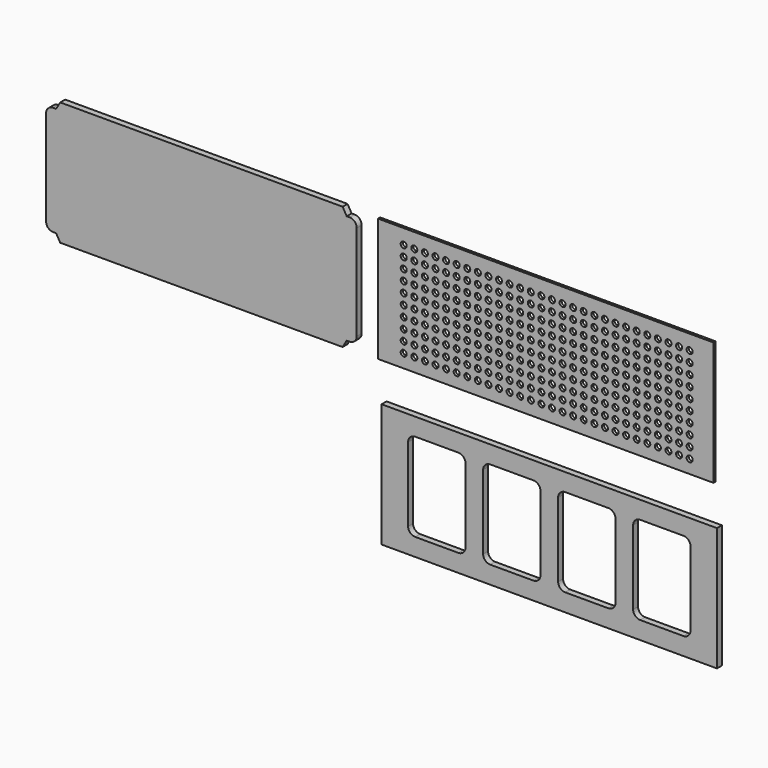
from build123d import *

# Parameters (mm, degrees)
F1_DEPTH = 3.5
F3_W     = 190
F3_H     = 70
F4_DEPTH = 1.5
F5_R     = 1.7095
F6_DEPTH = 25
F7_W     = 190
F7_H     = 70
F8_DEPTH = 3.5


with BuildPart() as f1:
    # F0 (on Front) → F1 (new body)
    with BuildSketch(Plane.XZ):
        with BuildLine():
            Line((-6.106985, 33), (-6.106985, -37))
            Line((-6.106985, -37), (73.893015, -37))
            Line((73.893015, -37), (76.202416, -33))
            Line((76.202416, -33), (77.893015, -33))
            ThreePointArc((77.893015, -33), (80.721442, -31.828427), (81.893015, -29))
            Line((81.893015, -29), (81.893015, 25))
            ThreePointArc((81.893015, 25), (80.721442, 27.828427), (77.893015, 29))
            Line((77.893015, 29), (76.202416, 29))
            Line((76.202416, 29), (73.893015, 33))
            Line((73.893015, 33), (-6.106985, 33))
        make_face()
    extrude(amount=F1_DEPTH)

    # F2: F1 across face


with BuildPart() as f1_1:
    add(f1.part)
    add(f1.part.mirror(Plane(origin=(-6.106985, -1.75, -2), x_dir=(0, -1, 0), z_dir=(-1, 0, 0))))


with BuildPart() as f4:
    # F3 (on Front) → F4 (new body)
    with BuildSketch(Plane.XZ):
        with Locations((187.389514, -2.739854)):
            Rectangle(F3_W, F3_H)
    extrude(amount=F4_DEPTH)

    # F5 (on face) → F6 (cut)
    with BuildSketch(Plane.XZ.offset(1.5)):
        with Locations((106.91639, 23.84547)):
            Circle(F5_R)
        with Locations((106.91639, 17.84547)):
            Circle(F5_R)
        with Locations((106.91639, 11.84547)):
            Circle(F5_R)
        with Locations((106.91639, 5.84547)):
            Circle(F5_R)
        with Locations((106.91639, -0.15453)):
            Circle(F5_R)
        with Locations((106.91639, -6.15453)):
            Circle(F5_R)
        with Locations((106.91639, -12.15453)):
            Circle(F5_R)
        with Locations((106.91639, -18.15453)):
            Circle(F5_R)
        with Locations((106.91639, -24.15453)):
            Circle(F5_R)
        with Locations((106.91639, -30.15453)):
            Circle(F5_R)
        with Locations((112.91639, 23.84547)):
            Circle(F5_R)
        with Locations((112.91639, 17.84547)):
            Circle(F5_R)
        with Locations((112.91639, 11.84547)):
            Circle(F5_R)
        with Locations((112.91639, 5.84547)):
            Circle(F5_R)
        with Locations((112.91639, -0.15453)):
            Circle(F5_R)
        with Locations((112.91639, -6.15453)):
            Circle(F5_R)
        with Locations((112.91639, -12.15453)):
            Circle(F5_R)
        with Locations((112.91639, -18.15453)):
            Circle(F5_R)
        with Locations((112.91639, -24.15453)):
            Circle(F5_R)
        with Locations((112.91639, -30.15453)):
            Circle(F5_R)
        with Locations((118.91639, 23.84547)):
            Circle(F5_R)
        with Locations((118.91639, 17.84547)):
            Circle(F5_R)
        with Locations((118.91639, 11.84547)):
            Circle(F5_R)
        with Locations((118.91639, 5.84547)):
            Circle(F5_R)
        with Locations((118.91639, -0.15453)):
            Circle(F5_R)
        with Locations((118.91639, -6.15453)):
            Circle(F5_R)
        with Locations((118.91639, -12.15453)):
            Circle(F5_R)
        with Locations((118.91639, -18.15453)):
            Circle(F5_R)
        with Locations((118.91639, -24.15453)):
            Circle(F5_R)
        with Locations((118.91639, -30.15453)):
            Circle(F5_R)
        with Locations((124.91639, 23.84547)):
            Circle(F5_R)
        with Locations((124.91639, 17.84547)):
            Circle(F5_R)
        with Locations((124.91639, 11.84547)):
            Circle(F5_R)
        with Locations((124.91639, 5.84547)):
            Circle(F5_R)
        with Locations((124.91639, -0.15453)):
            Circle(F5_R)
        with Locations((124.91639, -6.15453)):
            Circle(F5_R)
        with Locations((124.91639, -12.15453)):
            Circle(F5_R)
        with Locations((124.91639, -18.15453)):
            Circle(F5_R)
        with Locations((124.91639, -24.15453)):
            Circle(F5_R)
        with Locations((124.91639, -30.15453)):
            Circle(F5_R)
        with Locations((130.91639, 23.84547)):
            Circle(F5_R)
        with Locations((130.91639, 17.84547)):
            Circle(F5_R)
        with Locations((130.91639, 11.84547)):
            Circle(F5_R)
        with Locations((130.91639, 5.84547)):
            Circle(F5_R)
        with Locations((130.91639, -0.15453)):
            Circle(F5_R)
        with Locations((130.91639, -6.15453)):
            Circle(F5_R)
        with Locations((130.91639, -12.15453)):
            Circle(F5_R)
        with Locations((130.91639, -18.15453)):
            Circle(F5_R)
        with Locations((130.91639, -24.15453)):
            Circle(F5_R)
        with Locations((130.91639, -30.15453)):
            Circle(F5_R)
        with Locations((136.91639, 23.84547)):
            Circle(F5_R)
        with Locations((136.91639, 17.84547)):
            Circle(F5_R)
        with Locations((136.91639, 11.84547)):
            Circle(F5_R)
        with Locations((136.91639, 5.84547)):
            Circle(F5_R)
        with Locations((136.91639, -0.15453)):
            Circle(F5_R)
        with Locations((136.91639, -6.15453)):
            Circle(F5_R)
        with Locations((136.91639, -12.15453)):
            Circle(F5_R)
        with Locations((136.91639, -18.15453)):
            Circle(F5_R)
        with Locations((136.91639, -24.15453)):
            Circle(F5_R)
        with Locations((136.91639, -30.15453)):
            Circle(F5_R)
        with Locations((142.91639, 23.84547)):
            Circle(F5_R)
        with Locations((142.91639, 17.84547)):
            Circle(F5_R)
        with Locations((142.91639, 11.84547)):
            Circle(F5_R)
        with Locations((142.91639, 5.84547)):
            Circle(F5_R)
        with Locations((142.91639, -0.15453)):
            Circle(F5_R)
        with Locations((142.91639, -6.15453)):
            Circle(F5_R)
        with Locations((142.91639, -12.15453)):
            Circle(F5_R)
        with Locations((142.91639, -18.15453)):
            Circle(F5_R)
        with Locations((142.91639, -24.15453)):
            Circle(F5_R)
        with Locations((142.91639, -30.15453)):
            Circle(F5_R)
        with Locations((148.91639, 23.84547)):
            Circle(F5_R)
        with Locations((148.91639, 17.84547)):
            Circle(F5_R)
        with Locations((148.91639, 11.84547)):
            Circle(F5_R)
        with Locations((148.91639, 5.84547)):
            Circle(F5_R)
        with Locations((148.91639, -0.15453)):
            Circle(F5_R)
        with Locations((148.91639, -6.15453)):
            Circle(F5_R)
        with Locations((148.91639, -12.15453)):
            Circle(F5_R)
        with Locations((148.91639, -18.15453)):
            Circle(F5_R)
        with Locations((148.91639, -24.15453)):
            Circle(F5_R)
        with Locations((148.91639, -30.15453)):
            Circle(F5_R)
        with Locations((154.91639, 23.84547)):
            Circle(F5_R)
        with Locations((154.91639, 17.84547)):
            Circle(F5_R)
        with Locations((154.91639, 11.84547)):
            Circle(F5_R)
        with Locations((154.91639, 5.84547)):
            Circle(F5_R)
        with Locations((154.91639, -0.15453)):
            Circle(F5_R)
        with Locations((154.91639, -6.15453)):
            Circle(F5_R)
        with Locations((154.91639, -12.15453)):
            Circle(F5_R)
        with Locations((154.91639, -18.15453)):
            Circle(F5_R)
        with Locations((154.91639, -24.15453)):
            Circle(F5_R)
        with Locations((154.91639, -30.15453)):
            Circle(F5_R)
        with Locations((160.91639, 23.84547)):
            Circle(F5_R)
        with Locations((160.91639, 17.84547)):
            Circle(F5_R)
        with Locations((160.91639, 11.84547)):
            Circle(F5_R)
        with Locations((160.91639, 5.84547)):
            Circle(F5_R)
        with Locations((160.91639, -0.15453)):
            Circle(F5_R)
        with Locations((160.91639, -6.15453)):
            Circle(F5_R)
        with Locations((160.91639, -12.15453)):
            Circle(F5_R)
        with Locations((160.91639, -18.15453)):
            Circle(F5_R)
        with Locations((160.91639, -24.15453)):
            Circle(F5_R)
        with Locations((160.91639, -30.15453)):
            Circle(F5_R)
        with Locations((166.91639, 23.84547)):
            Circle(F5_R)
        with Locations((166.91639, 17.84547)):
            Circle(F5_R)
        with Locations((166.91639, 11.84547)):
            Circle(F5_R)
        with Locations((166.91639, 5.84547)):
            Circle(F5_R)
        with Locations((166.91639, -0.15453)):
            Circle(F5_R)
        with Locations((166.91639, -6.15453)):
            Circle(F5_R)
        with Locations((166.91639, -12.15453)):
            Circle(F5_R)
        with Locations((166.91639, -18.15453)):
            Circle(F5_R)
        with Locations((166.91639, -24.15453)):
            Circle(F5_R)
        with Locations((166.91639, -30.15453)):
            Circle(F5_R)
        with Locations((172.91639, 23.84547)):
            Circle(F5_R)
        with Locations((172.91639, 17.84547)):
            Circle(F5_R)
        with Locations((172.91639, 11.84547)):
            Circle(F5_R)
        with Locations((172.91639, 5.84547)):
            Circle(F5_R)
        with Locations((172.91639, -0.15453)):
            Circle(F5_R)
        with Locations((172.91639, -6.15453)):
            Circle(F5_R)
        with Locations((172.91639, -12.15453)):
            Circle(F5_R)
        with Locations((172.91639, -18.15453)):
            Circle(F5_R)
        with Locations((172.91639, -24.15453)):
            Circle(F5_R)
        with Locations((172.91639, -30.15453)):
            Circle(F5_R)
        with Locations((178.91639, 23.84547)):
            Circle(F5_R)
        with Locations((178.91639, 17.84547)):
            Circle(F5_R)
        with Locations((178.91639, 11.84547)):
            Circle(F5_R)
        with Locations((178.91639, 5.84547)):
            Circle(F5_R)
        with Locations((178.91639, -0.15453)):
            Circle(F5_R)
        with Locations((178.91639, -6.15453)):
            Circle(F5_R)
        with Locations((178.91639, -12.15453)):
            Circle(F5_R)
        with Locations((178.91639, -18.15453)):
            Circle(F5_R)
        with Locations((178.91639, -24.15453)):
            Circle(F5_R)
        with Locations((178.91639, -30.15453)):
            Circle(F5_R)
        with Locations((184.91639, 23.84547)):
            Circle(F5_R)
        with Locations((184.91639, 17.84547)):
            Circle(F5_R)
        with Locations((184.91639, 11.84547)):
            Circle(F5_R)
        with Locations((184.91639, 5.84547)):
            Circle(F5_R)
        with Locations((184.91639, -0.15453)):
            Circle(F5_R)
        with Locations((184.91639, -6.15453)):
            Circle(F5_R)
        with Locations((184.91639, -12.15453)):
            Circle(F5_R)
        with Locations((184.91639, -18.15453)):
            Circle(F5_R)
        with Locations((184.91639, -24.15453)):
            Circle(F5_R)
        with Locations((184.91639, -30.15453)):
            Circle(F5_R)
        with Locations((190.91639, 23.84547)):
            Circle(F5_R)
        with Locations((190.91639, 17.84547)):
            Circle(F5_R)
        with Locations((190.91639, 11.84547)):
            Circle(F5_R)
        with Locations((190.91639, 5.84547)):
            Circle(F5_R)
        with Locations((190.91639, -0.15453)):
            Circle(F5_R)
        with Locations((190.91639, -6.15453)):
            Circle(F5_R)
        with Locations((190.91639, -12.15453)):
            Circle(F5_R)
        with Locations((190.91639, -18.15453)):
            Circle(F5_R)
        with Locations((190.91639, -24.15453)):
            Circle(F5_R)
        with Locations((190.91639, -30.15453)):
            Circle(F5_R)
        with Locations((196.91639, 23.84547)):
            Circle(F5_R)
        with Locations((196.91639, 17.84547)):
            Circle(F5_R)
        with Locations((196.91639, 11.84547)):
            Circle(F5_R)
        with Locations((196.91639, 5.84547)):
            Circle(F5_R)
        with Locations((196.91639, -0.15453)):
            Circle(F5_R)
        with Locations((196.91639, -6.15453)):
            Circle(F5_R)
        with Locations((196.91639, -12.15453)):
            Circle(F5_R)
        with Locations((196.91639, -18.15453)):
            Circle(F5_R)
        with Locations((196.91639, -24.15453)):
            Circle(F5_R)
        with Locations((196.91639, -30.15453)):
            Circle(F5_R)
        with Locations((202.91639, 23.84547)):
            Circle(F5_R)
        with Locations((202.91639, 17.84547)):
            Circle(F5_R)
        with Locations((202.91639, 11.84547)):
            Circle(F5_R)
        with Locations((202.91639, 5.84547)):
            Circle(F5_R)
        with Locations((202.91639, -0.15453)):
            Circle(F5_R)
        with Locations((202.91639, -6.15453)):
            Circle(F5_R)
        with Locations((202.91639, -12.15453)):
            Circle(F5_R)
        with Locations((202.91639, -18.15453)):
            Circle(F5_R)
        with Locations((202.91639, -24.15453)):
            Circle(F5_R)
        with Locations((202.91639, -30.15453)):
            Circle(F5_R)
        with Locations((208.91639, 23.84547)):
            Circle(F5_R)
        with Locations((208.91639, 17.84547)):
            Circle(F5_R)
        with Locations((208.91639, 11.84547)):
            Circle(F5_R)
        with Locations((208.91639, 5.84547)):
            Circle(F5_R)
        with Locations((208.91639, -0.15453)):
            Circle(F5_R)
        with Locations((208.91639, -6.15453)):
            Circle(F5_R)
        with Locations((208.91639, -12.15453)):
            Circle(F5_R)
        with Locations((208.91639, -18.15453)):
            Circle(F5_R)
        with Locations((208.91639, -24.15453)):
            Circle(F5_R)
        with Locations((208.91639, -30.15453)):
            Circle(F5_R)
        with Locations((214.91639, 23.84547)):
            Circle(F5_R)
        with Locations((214.91639, 17.84547)):
            Circle(F5_R)
        with Locations((214.91639, 11.84547)):
            Circle(F5_R)
        with Locations((214.91639, 5.84547)):
            Circle(F5_R)
        with Locations((214.91639, -0.15453)):
            Circle(F5_R)
        with Locations((214.91639, -6.15453)):
            Circle(F5_R)
        with Locations((214.91639, -12.15453)):
            Circle(F5_R)
        with Locations((214.91639, -18.15453)):
            Circle(F5_R)
        with Locations((214.91639, -24.15453)):
            Circle(F5_R)
        with Locations((214.91639, -30.15453)):
            Circle(F5_R)
        with Locations((220.91639, 23.84547)):
            Circle(F5_R)
        with Locations((220.91639, 17.84547)):
            Circle(F5_R)
        with Locations((220.91639, 11.84547)):
            Circle(F5_R)
        with Locations((220.91639, 5.84547)):
            Circle(F5_R)
        with Locations((220.91639, -0.15453)):
            Circle(F5_R)
        with Locations((220.91639, -6.15453)):
            Circle(F5_R)
        with Locations((220.91639, -12.15453)):
            Circle(F5_R)
        with Locations((220.91639, -18.15453)):
            Circle(F5_R)
        with Locations((220.91639, -24.15453)):
            Circle(F5_R)
        with Locations((220.91639, -30.15453)):
            Circle(F5_R)
        with Locations((226.91639, 23.84547)):
            Circle(F5_R)
        with Locations((226.91639, 17.84547)):
            Circle(F5_R)
        with Locations((226.91639, 11.84547)):
            Circle(F5_R)
        with Locations((226.91639, 5.84547)):
            Circle(F5_R)
        with Locations((226.91639, -0.15453)):
            Circle(F5_R)
        with Locations((226.91639, -6.15453)):
            Circle(F5_R)
        with Locations((226.91639, -12.15453)):
            Circle(F5_R)
        with Locations((226.91639, -18.15453)):
            Circle(F5_R)
        with Locations((226.91639, -24.15453)):
            Circle(F5_R)
        with Locations((226.91639, -30.15453)):
            Circle(F5_R)
        with Locations((232.91639, 23.84547)):
            Circle(F5_R)
        with Locations((232.91639, 17.84547)):
            Circle(F5_R)
        with Locations((232.91639, 11.84547)):
            Circle(F5_R)
        with Locations((232.91639, 5.84547)):
            Circle(F5_R)
        with Locations((232.91639, -0.15453)):
            Circle(F5_R)
        with Locations((232.91639, -6.15453)):
            Circle(F5_R)
        with Locations((232.91639, -12.15453)):
            Circle(F5_R)
        with Locations((232.91639, -18.15453)):
            Circle(F5_R)
        with Locations((232.91639, -24.15453)):
            Circle(F5_R)
        with Locations((232.91639, -30.15453)):
            Circle(F5_R)
        with Locations((238.91639, 23.84547)):
            Circle(F5_R)
        with Locations((238.91639, 17.84547)):
            Circle(F5_R)
        with Locations((238.91639, 11.84547)):
            Circle(F5_R)
        with Locations((238.91639, 5.84547)):
            Circle(F5_R)
        with Locations((238.91639, -0.15453)):
            Circle(F5_R)
        with Locations((238.91639, -6.15453)):
            Circle(F5_R)
        with Locations((238.91639, -12.15453)):
            Circle(F5_R)
        with Locations((238.91639, -18.15453)):
            Circle(F5_R)
        with Locations((238.91639, -24.15453)):
            Circle(F5_R)
        with Locations((238.91639, -30.15453)):
            Circle(F5_R)
        with Locations((244.91639, 23.84547)):
            Circle(F5_R)
        with Locations((244.91639, 17.84547)):
            Circle(F5_R)
        with Locations((244.91639, 11.84547)):
            Circle(F5_R)
        with Locations((244.91639, 5.84547)):
            Circle(F5_R)
        with Locations((244.91639, -0.15453)):
            Circle(F5_R)
        with Locations((244.91639, -6.15453)):
            Circle(F5_R)
        with Locations((244.91639, -12.15453)):
            Circle(F5_R)
        with Locations((244.91639, -18.15453)):
            Circle(F5_R)
        with Locations((244.91639, -24.15453)):
            Circle(F5_R)
        with Locations((244.91639, -30.15453)):
            Circle(F5_R)
        with Locations((250.91639, 23.84547)):
            Circle(F5_R)
        with Locations((250.91639, 17.84547)):
            Circle(F5_R)
        with Locations((250.91639, 11.84547)):
            Circle(F5_R)
        with Locations((250.91639, 5.84547)):
            Circle(F5_R)
        with Locations((250.91639, -0.15453)):
            Circle(F5_R)
        with Locations((250.91639, -6.15453)):
            Circle(F5_R)
        with Locations((250.91639, -12.15453)):
            Circle(F5_R)
        with Locations((250.91639, -18.15453)):
            Circle(F5_R)
        with Locations((250.91639, -24.15453)):
            Circle(F5_R)
        with Locations((250.91639, -30.15453)):
            Circle(F5_R)
        with Locations((256.91639, 23.84547)):
            Circle(F5_R)
        with Locations((256.91639, 17.84547)):
            Circle(F5_R)
        with Locations((256.91639, 11.84547)):
            Circle(F5_R)
        with Locations((256.91639, 5.84547)):
            Circle(F5_R)
        with Locations((256.91639, -0.15453)):
            Circle(F5_R)
        with Locations((256.91639, -6.15453)):
            Circle(F5_R)
        with Locations((256.91639, -12.15453)):
            Circle(F5_R)
        with Locations((256.91639, -18.15453)):
            Circle(F5_R)
        with Locations((256.91639, -24.15453)):
            Circle(F5_R)
        with Locations((256.91639, -30.15453)):
            Circle(F5_R)
        with Locations((262.91639, 23.84547)):
            Circle(F5_R)
        with Locations((262.91639, 17.84547)):
            Circle(F5_R)
        with Locations((262.91639, 11.84547)):
            Circle(F5_R)
        with Locations((262.91639, 5.84547)):
            Circle(F5_R)
        with Locations((262.91639, -0.15453)):
            Circle(F5_R)
        with Locations((262.91639, -6.15453)):
            Circle(F5_R)
        with Locations((262.91639, -12.15453)):
            Circle(F5_R)
        with Locations((262.91639, -18.15453)):
            Circle(F5_R)
        with Locations((262.91639, -24.15453)):
            Circle(F5_R)
        with Locations((262.91639, -30.15453)):
            Circle(F5_R)
        with Locations((268.91639, 23.84547)):
            Circle(F5_R)
        with Locations((268.91639, 17.84547)):
            Circle(F5_R)
        with Locations((268.91639, 11.84547)):
            Circle(F5_R)
        with Locations((268.91639, 5.84547)):
            Circle(F5_R)
        with Locations((268.91639, -0.15453)):
            Circle(F5_R)
        with Locations((268.91639, -6.15453)):
            Circle(F5_R)
        with Locations((268.91639, -12.15453)):
            Circle(F5_R)
        with Locations((268.91639, -18.15453)):
            Circle(F5_R)
        with Locations((268.91639, -24.15453)):
            Circle(F5_R)
        with Locations((268.91639, -30.15453)):
            Circle(F5_R)
    extrude(amount=-F6_DEPTH, mode=Mode.SUBTRACT)


with BuildPart() as f8:
    # F7 (on Front) → F8 (new body)
    with BuildSketch(Plane.XZ):
        with Locations((191.008055, -93.327975)):
            Rectangle(F7_W, F7_H)
        with BuildLine():
            ThreePointArc((242.508055, -118.327975), (239.679628, -117.156402), (238.508055, -114.327975))
            Line((238.508055, -114.327975), (238.508055, -72.327975))
            ThreePointArc((238.508055, -72.327975), (239.679628, -69.499548), (242.508055, -68.327975))
            Line((242.508055, -68.327975), (267.008055, -68.327975))
            ThreePointArc((267.008055, -68.327975), (269.836482, -69.499548), (271.008055, -72.327975))
            Line((271.008055, -72.327975), (271.008055, -114.327975))
            ThreePointArc((271.008055, -114.327975), (269.836482, -117.156402), (267.008055, -118.327975))
            Line((267.008055, -118.327975), (242.508055, -118.327975))
        make_face(mode=Mode.SUBTRACT)
        with BuildLine():
            Line((139.508055, -118.327975), (115.008055, -118.327975))
            ThreePointArc((115.008055, -118.327975), (112.179628, -117.156402), (111.008055, -114.327975))
            Line((111.008055, -114.327975), (111.008055, -72.327975))
            ThreePointArc((111.008055, -72.327975), (112.179628, -69.499548), (115.008055, -68.327975))
            Line((115.008055, -68.327975), (139.508055, -68.327975))
            ThreePointArc((139.508055, -68.327975), (142.336482, -69.499548), (143.508055, -72.327975))
            Line((143.508055, -72.327975), (143.508055, -114.327975))
            ThreePointArc((143.508055, -114.327975), (142.336482, -117.156402), (139.508055, -118.327975))
        make_face(mode=Mode.SUBTRACT)
        with BuildLine():
            ThreePointArc((157.508055, -118.327975), (154.679628, -117.156402), (153.508055, -114.327975))
            Line((153.508055, -114.327975), (153.508055, -72.327975))
            ThreePointArc((153.508055, -72.327975), (154.679628, -69.499548), (157.508055, -68.327975))
            Line((157.508055, -68.327975), (182.008055, -68.327975))
            ThreePointArc((182.008055, -68.327975), (184.836482, -69.499548), (186.008055, -72.327975))
            Line((186.008055, -72.327975), (186.008055, -114.327975))
            ThreePointArc((186.008055, -114.327975), (184.836482, -117.156402), (182.008055, -118.327975))
            Line((182.008055, -118.327975), (157.508055, -118.327975))
        make_face(mode=Mode.SUBTRACT)
        with BuildLine():
            ThreePointArc((200.008055, -118.327975), (197.179628, -117.156402), (196.008055, -114.327975))
            Line((196.008055, -114.327975), (196.008055, -72.327975))
            ThreePointArc((196.008055, -72.327975), (197.179628, -69.499548), (200.008055, -68.327975))
            Line((200.008055, -68.327975), (224.508055, -68.327975))
            ThreePointArc((224.508055, -68.327975), (227.336482, -69.499548), (228.508055, -72.327975))
            Line((228.508055, -72.327975), (228.508055, -114.327975))
            ThreePointArc((228.508055, -114.327975), (227.336482, -117.156402), (224.508055, -118.327975))
            Line((224.508055, -118.327975), (200.008055, -118.327975))
        make_face(mode=Mode.SUBTRACT)
    extrude(amount=F8_DEPTH)


solid = Compound([f1_1.part, f4.part, f8.part])
